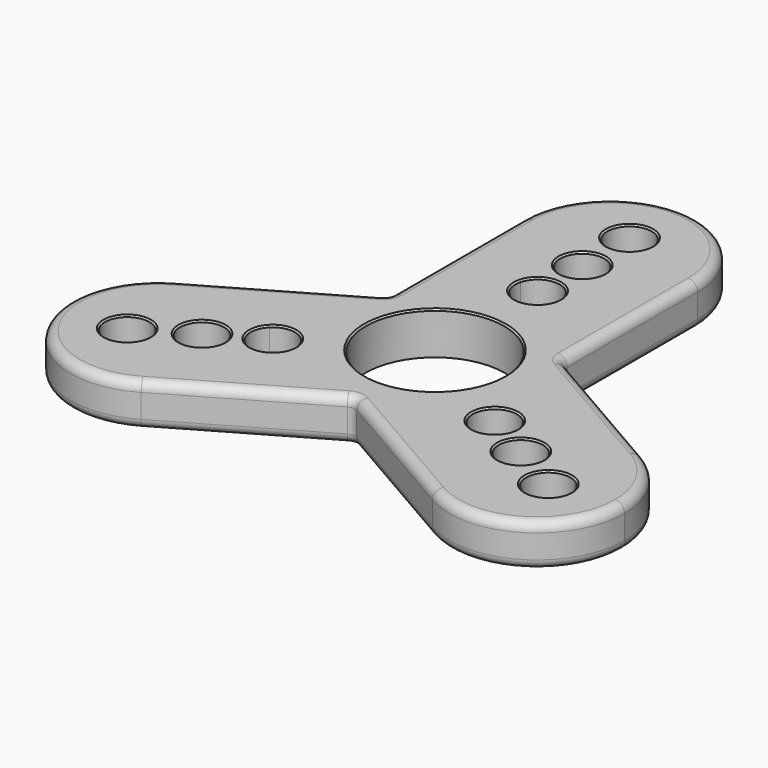
from build123d import *

# Parameters (mm, degrees)
F0_R     = 3.55
F0_R_2   = 11.1
F1_DEPTH = 6.8
F2_R     = 1.5
F3_SIZE  = 0.25


with BuildPart() as f1:
    # F0 (on Top) → F1 (new body)
    with BuildSketch(Plane.XY):
        with BuildLine():
            ThreePointArc((-14, 0), (-12.124355653, 7), (-7, 12.124355653))
            Line((-7, 12.124355653), (-14, 8.0829037687))
            Line((-14, 8.0829037687), (-14, 0))
        make_face()
        with BuildLine():
            ThreePointArc((-7, 12.124355653), (0, 14), (7, 12.124355653))
            Line((7, 12.124355653), (14, 8.0829037687))
            Line((14, 8.0829037687), (14, 35))
            ThreePointArc((14, 35), (11.0454106484, 26.3977384596), (3.4287280559, 21.4263555403))
            ThreePointArc((3.4287280559, 21.4263555403), (3.5195514344, 20.9703556172), (3.55, 20.5063968897))
            ThreePointArc((3.55, 20.5063968897), (-0.4639587275, 16.9868454553), (-3.4287280559, 21.4263555403))
            ThreePointArc((-3.4287280559, 21.4263555403), (-11.0454106484, 26.3977384596), (-14, 35))
            Line((-14, 35), (-14, 8.0829037687))
            Line((-14, 8.0829037687), (-7, 12.124355653))
        make_face()
        with BuildLine():
            ThreePointArc((3.4287280559, 21.4263555403), (11.0454106484, 26.3977384596), (14, 35))
            ThreePointArc((14, 35), (0, 49), (-14, 35))
            ThreePointArc((-14, 35), (-11.0454106484, 26.3977384596), (-3.4287280559, 21.4263555403))
            ThreePointArc((-3.4287280559, 21.4263555403), (0, 24.0563968897), (3.4287280559, 21.4263555403))
        make_face()
        with Locations((0, 29.4450819492)):
            Circle(F0_R, mode=Mode.SUBTRACT)
        with Locations((0, 38.9007553458)):
            Circle(F0_R, mode=Mode.SUBTRACT)
        with BuildLine():
            Line((14, 8.0829037687), (14, 0))
            ThreePointArc((14, 0), (12.124355653, -7), (7, -12.124355653))
            Line((7, -12.124355653), (0, -16.1658075373))
            Line((0, -16.1658075373), (23.3108891325, -29.624355653))
            ThreePointArc((23.3108891325, -29.624355653), (17.3384067843, -22.7644754465), (16.8414041805, -13.6825433692))
            ThreePointArc((16.8414041805, -13.6825433692), (14.6846704631, -8.4781984448), (20.2701322363, -7.7438121711))
            ThreePointArc((20.2701322363, -7.7438121711), (28.3838174327, -3.6332630131), (37.3108891325, -5.375644347))
            Line((37.3108891325, -5.375644347), (14, 8.0829037687))
        make_face()
        with BuildLine():
            ThreePointArc((44.3108891325, -17.5), (42.4352447854, -10.5), (37.3108891325, -5.375644347))
            ThreePointArc((37.3108891325, -5.375644347), (28.3838174327, -3.6332630131), (20.2701322363, -7.7438121711))
            ThreePointArc((20.2701322363, -7.7438121711), (21.0390609624, -8.895222772), (21.3090606466, -10.2531984448))
            ThreePointArc((21.3090606466, -10.2531984448), (19.9206364081, -13.0692400332), (16.8414041805, -13.6825433692))
            ThreePointArc((16.8414041805, -13.6825433692), (17.3384067843, -22.7644754465), (23.3108891325, -29.624355653))
            ThreePointArc((23.3108891325, -29.624355653), (37.3108891325, -29.624355653), (44.3108891325, -17.5))
        make_face()
        with Locations((25.5001889846, -14.7225409746)):
            Circle(F0_R, mode=Mode.SUBTRACT)
        with Locations((33.6890423559, -19.4503776729)):
            Circle(F0_R, mode=Mode.SUBTRACT)
        with BuildLine():
            ThreePointArc((-37.3108891325, -5.375644347), (-42.4352447854, -24.5), (-23.3108891325, -29.624355653))
            ThreePointArc((-23.3108891325, -29.624355653), (-18.1865334795, -24.5), (-16.3108891325, -17.5))
            ThreePointArc((-16.3108891325, -17.5), (-16.4441521456, -15.5729283002), (-16.8414041805, -13.6825433692))
            ThreePointArc((-16.8414041805, -13.6825433692), (-20.83345083, -12.0281984448), (-20.2701322363, -7.7438121711))
            ThreePointArc((-20.2701322363, -7.7438121711), (-28.3838174327, -3.6332630131), (-37.3108891325, -5.375644347))
        make_face()
        with Locations((-33.6890423559, -19.4503776729)):
            Circle(F0_R, mode=Mode.SUBTRACT)
        with Locations((-25.5001889846, -14.7225409746)):
            Circle(F0_R, mode=Mode.SUBTRACT)
        with BuildLine():
            Line((0, -16.1658075373), (-7, -12.124355653))
            ThreePointArc((-7, -12.124355653), (-12.124355653, -7), (-14, 0))
            Line((-14, 0), (-14, 8.0829037687))
            Line((-14, 8.0829037687), (-37.3108891325, -5.375644347))
            ThreePointArc((-37.3108891325, -5.375644347), (-28.3838174327, -3.6332630131), (-20.2701322363, -7.7438121711))
            ThreePointArc((-20.2701322363, -7.7438121711), (-16.4010849737, -6.973198129), (-14.2090606466, -10.2531984448))
            ThreePointArc((-14.2090606466, -10.2531984448), (-14.9430190582, -12.4147742063), (-16.8414041805, -13.6825433692))
            ThreePointArc((-16.8414041805, -13.6825433692), (-16.4441521456, -15.5729283002), (-16.3108891325, -17.5))
            ThreePointArc((-16.3108891325, -17.5), (-18.1865334795, -24.5), (-23.3108891325, -29.624355653))
            Line((-23.3108891325, -29.624355653), (0, -16.1658075373))
        make_face()
        with BuildLine():
            Line((0, -16.1658075373), (7, -12.124355653))
            ThreePointArc((7, -12.124355653), (0, -14), (-7, -12.124355653))
            Line((-7, -12.124355653), (0, -16.1658075373))
        make_face()
        with BuildLine():
            ThreePointArc((7, -12.124355653), (12.124355653, -7), (14, 0))
            ThreePointArc((14, 0), (12.124355653, 7), (7, 12.124355653))
            ThreePointArc((7, 12.124355653), (0, 14), (-7, 12.124355653))
            ThreePointArc((-7, 12.124355653), (-12.124355653, 7), (-14, 0))
            ThreePointArc((-14, 0), (-12.124355653, -7), (-7, -12.124355653))
            ThreePointArc((-7, -12.124355653), (0, -14), (7, -12.124355653))
        make_face()
        Circle(F0_R_2, mode=Mode.SUBTRACT)
        with BuildLine():
            ThreePointArc((7, 12.124355653), (12.124355653, 7), (14, 0))
            Line((14, 0), (14, 8.0829037687))
            Line((14, 8.0829037687), (7, 12.124355653))
        make_face()
    extrude(amount=F1_DEPTH)

    # F2
    f2_edges = [f1.edges().sort_by_distance(p)[0] for p in [
        (-37.310889, -5.375644, 3.4),
        (-23.310889, -29.624356, 3.4),
        (-42.435245, -24.5, 0),
        (-42.435245, -24.5, 6.8),
        (0, -16.165808, 3.4),
        (-11.655445, -22.895082, 0),
        (-11.655445, -22.895082, 6.8),
        (23.310889, -29.624356, 3.4),
        (11.655445, -22.895082, 0),
        (11.655445, -22.895082, 6.8),
        (37.310889, -5.375644, 3.4),
        (42.435245, -24.5, 0),
        (42.435245, -24.5, 6.8),
        (14, 8.082904, 3.4),
        (25.655445, 1.35363, 0),
        (25.655445, 1.35363, 6.8),
        (14, 35, 3.4),
        (14, 21.541452, 0),
        (14, 21.541452, 6.8),
        (-14, 35, 3.4),
        (-14, 8.082904, 3.4),
        (-14, 21.541452, 0),
        (-14, 21.541452, 6.8),
        (-25.655445, 1.35363, 0),
        (-25.655445, 1.35363, 6.8),
    ]]
    fillet(f2_edges, radius=F2_R)

    # F3
    f3_edges = [f1.edges().sort_by_distance(p)[0] for p in [
        (-37.239042, -19.450378, 6.8),
        (-29.050189, -14.722541, 6.8),
        (-18.676717, -6.823854, 6.8),
        (-11.1, 0, 6.8),
        (3.428728, 19.586438, 6.8),
        (-3.55, 29.445082, 6.8),
        (-3.55, 38.900755, 6.8),
        (15.247989, -12.762585, 6.8),
        (21.950189, -14.722541, 6.8),
        (30.139042, -19.450378, 6.8),
    ]]
    chamfer(f3_edges, length=F3_SIZE)


solid = f1.part
